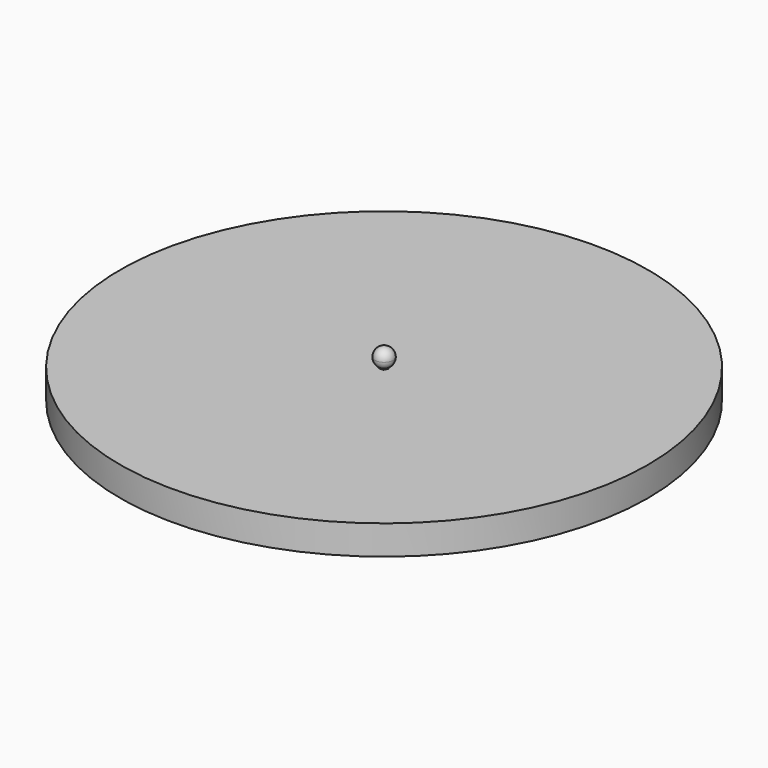
from build123d import *

# Parameters (mm, degrees)
F0_R     = 457.2
F1_DEPTH = 50.8
F2_DEPTH = 60.96
F3_R     = 15.875
F4_DEPTH = 31.75
F5_R     = 15.8496


with BuildPart() as f1:
    # F0 (on Top) → F1 (new body)
    with BuildSketch(Plane.XY):
        Circle(F0_R)
        Polygon((-3.81, 6.5991135768), (3.81, 6.5991135768), (7.62, 0), (3.81, -6.5991135768), (-3.81, -6.5991135768), (-7.62, 0), align=None, mode=Mode.SUBTRACT)
    extrude(amount=F1_DEPTH)

    # F0 (on Top) → F2 (join)
    with BuildSketch(Plane.XY):
        Polygon((7.62, 0), (3.81, 6.5991135768), (-3.81, 6.5991135768), (-7.62, 0), (-3.81, -6.5991135768), (3.81, -6.5991135768), align=None)
        Polygon((-1.2154102297, 2.2303313596), (1.3238185014, 2.1677418147), (2.5392287311, -0.0625895449), (1.2154102297, -2.2303313596), (-1.3238185014, -2.1677418147), (-2.5392287311, 0.0625895449), align=None, mode=Mode.SUBTRACT)
    extrude(amount=F2_DEPTH)


with BuildPart() as f4:
    # F3 (on face) → F4 (new body)
    with BuildSketch(Plane.XY.offset(50.8)):
        Circle(F3_R)
    extrude(amount=F4_DEPTH)

    # F5
    f5_edges = [f4.edges().sort_by_distance(p)[0] for p in [
        (-15.875, 0, 82.55),
        (-15.875, 0, 50.8),
    ]]
    fillet(f5_edges, radius=F5_R)


solid = Compound([f1.part, f4.part])
